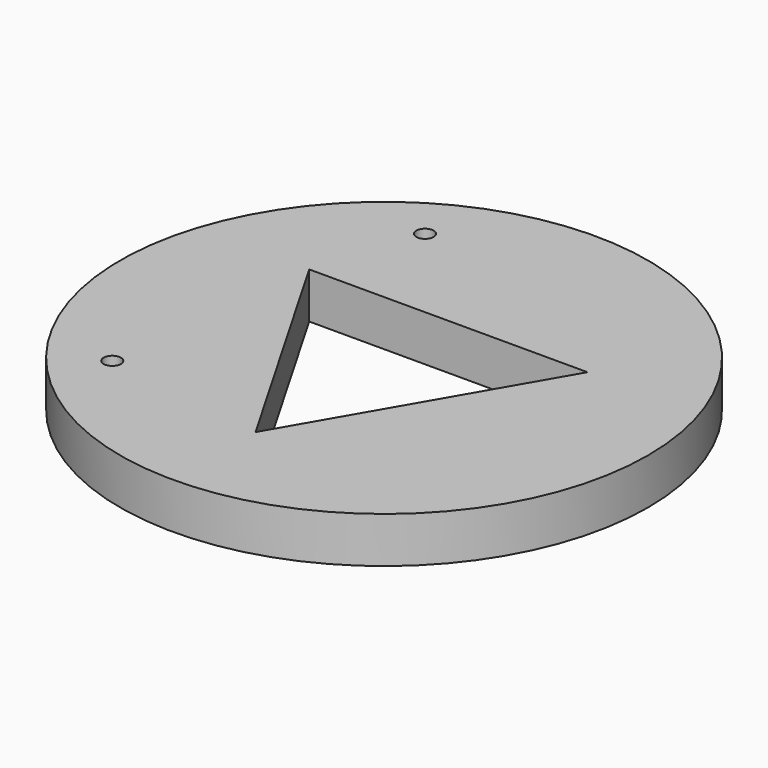
from build123d import *

# Parameters (mm, degrees)
F0_R     = 115
F1_DEPTH = 20
F2_R     = 3.7625
F3_DEPTH = 25


with BuildPart() as f1:
    # F0 (on Top) → F1 (new body)
    with BuildSketch(Plane.XY):
        Circle(F0_R)
        Polygon((0, -70), (-60.621778, 35), (60.621778, 35), align=None, mode=Mode.SUBTRACT)
    extrude(amount=F1_DEPTH)

    # F2 (on face) → F3 (cut)
    with BuildSketch(Plane(origin=(0, 0, 0), x_dir=(1, 0, 0), z_dir=(0, 0, -1))):
        with Locations((-70.859111, 59.457854)):
            Circle(F2_R)
        with Locations((-46.25, -80.10735)):
            Circle(F2_R)
    extrude(amount=-F3_DEPTH, mode=Mode.SUBTRACT)


solid = f1.part
